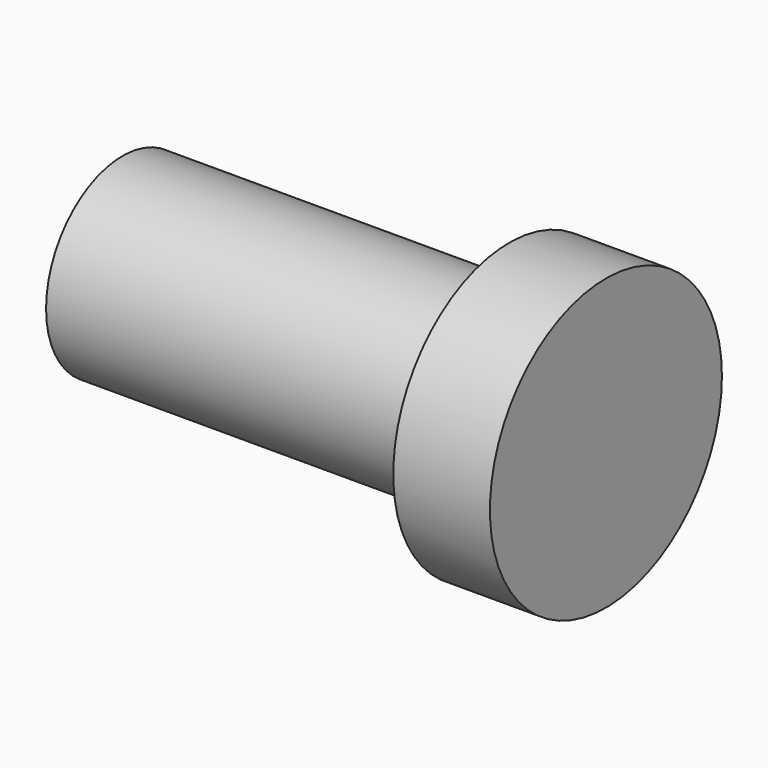
from build123d import *

# Parameters (mm, degrees)
F0_R     = 19.05
F1_DEPTH = 12.7
F2_R     = 12.573
F3_DEPTH = 50.8


with BuildPart() as f1:
    # F0 (on Right) → F1 (new body)
    with BuildSketch(Plane.YZ):
        Circle(F0_R)
    extrude(amount=F1_DEPTH)

    # F2 (on face) → F3 (join)
    with BuildSketch(Plane(origin=(0, 0, 0), x_dir=(0, -1, 0), z_dir=(-1, 0, 0))):
        Circle(F2_R)
    extrude(amount=F3_DEPTH)

    # F4 (on Front) → F5 (revolve, cut)
    with BuildSketch(Plane.XZ):
        with BuildLine():
            Line((-50.8, 0), (-44.45, 0))
            ThreePointArc((-44.45, 0), (-46.151477, 6.35), (-50.8, 10.998523))
            Line((-50.8, 10.998523), (-50.8, 0))
        make_face()
    revolve(axis=Axis((-66.567213, 0, 0), (1, 0, 0)), mode=Mode.SUBTRACT)


solid = f1.part
